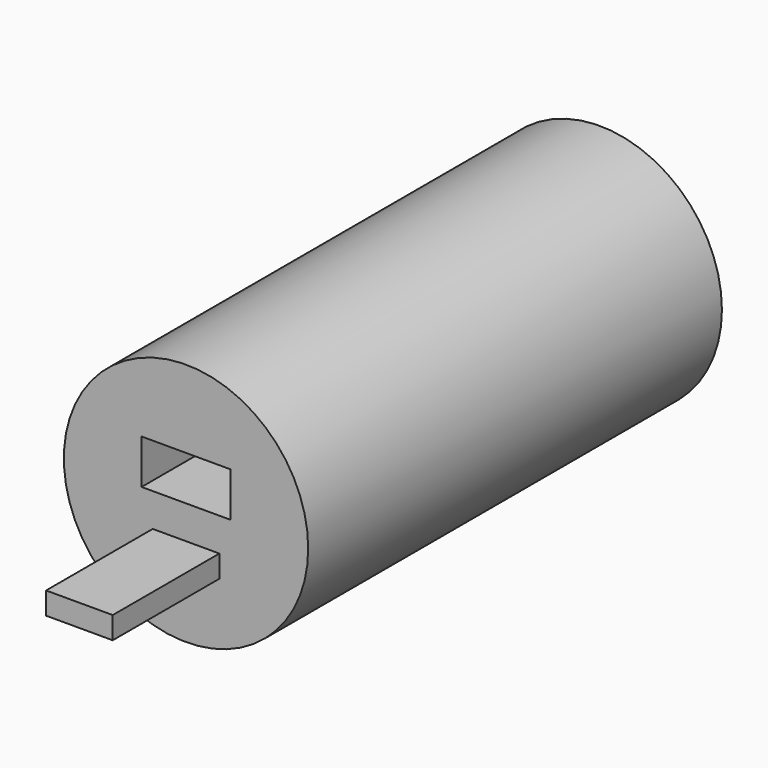
from build123d import *

# Parameters (mm, degrees)
F0_R     = 17.4625
F1_DEPTH = 73.914
F2_W     = 12.7
F2_H     = 6.35
F3_DEPTH = 178.054
F4_W     = 9.525
F4_H     = 3.175
F5_DEPTH = 19.05


with BuildPart() as f1:
    # F0 (on Front) → F1 (new body)
    with BuildSketch(Plane.XZ):
        Circle(F0_R)
    extrude(amount=F1_DEPTH)

    # F2 (on face) → F3 (cut)
    with BuildSketch(Plane.XZ.offset(73.914)):
        with Locations((0, 3.175)):
            Rectangle(F2_W, F2_H)
    extrude(amount=-F3_DEPTH, mode=Mode.SUBTRACT)

    # F4 (on face) → F5 (join)
    with BuildSketch(Plane.XZ.offset(73.914)):
        with Locations((0, -6.35)):
            Rectangle(F4_W, F4_H)
    extrude(amount=F5_DEPTH)


solid = f1.part
